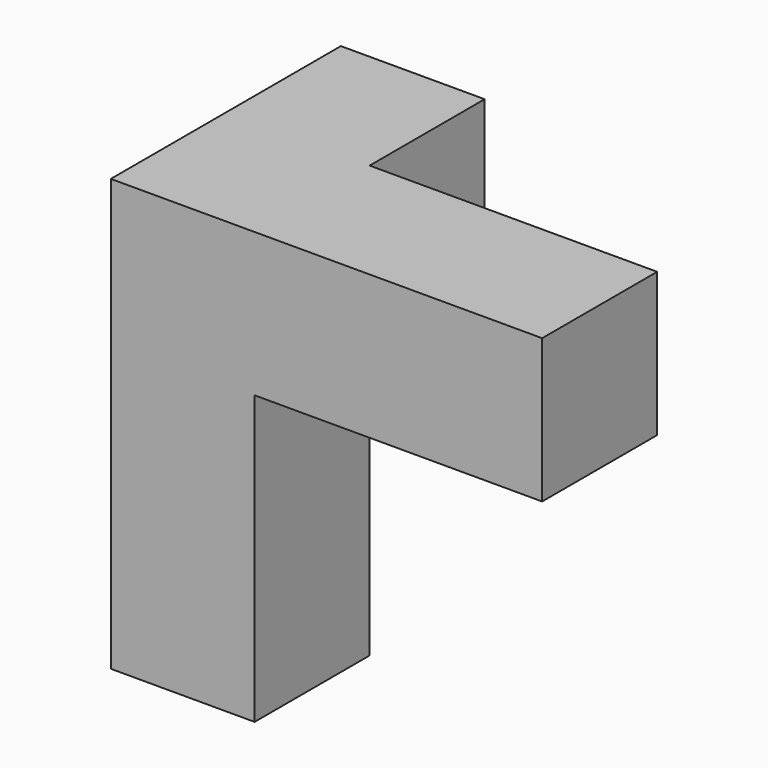
from build123d import *

# Parameters (mm, degrees)
F0_W     = 19.05
F0_H     = 38.1
F1_DEPTH = 19.05
F2_W     = 19.05
F2_H     = 19.05
F3_DEPTH = 19.05


with BuildPart() as f1:
    # F0 (on Front) → F1 (new body)
    with BuildSketch(Plane.XZ):
        Polygon((-11.367478, -6.834945), (-68.517478, -6.834945), (-68.517478, -25.884945), (-49.467478, -25.884945), (-11.367478, -25.884945), align=None)
        with Locations((-58.992478, -44.934945)):
            Rectangle(F0_W, F0_H)
    extrude(amount=F1_DEPTH)

    # F2 (on face) → F3 (join)
    with BuildSketch(Plane(origin=(0, 0, 0), x_dir=(-1, 0, 0), z_dir=(0, 1, 0))):
        with Locations((58.992478, -16.359945)):
            Rectangle(F2_W, F2_H)
    extrude(amount=F3_DEPTH)


solid = f1.part
